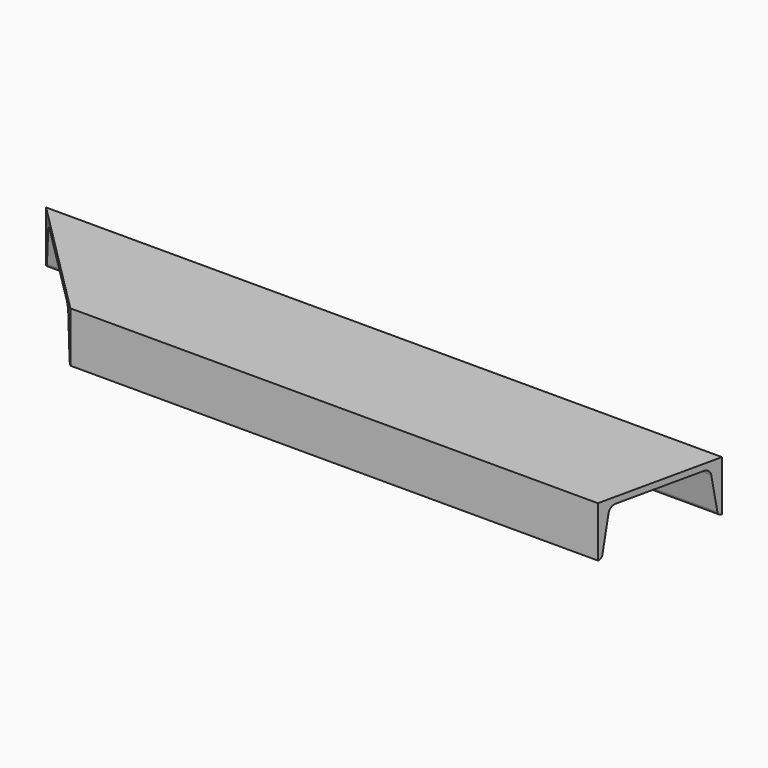
from build123d import *

# Parameters (mm, degrees)
F1_DEPTH = 848.51875
F3_DEPTH = 63.4248


with BuildPart() as f1:
    # F0 (on Right) → F1 (new body)
    with BuildSketch(Plane.YZ):
        with BuildLine():
            Line((76.2, 0), (-76.2, 0))
            Line((-76.2, 0), (-76.2, -63.4238))
            ThreePointArc((-76.2, -63.4238), (-72.574321, -62.102069), (-70.649887, -58.757061))
            Line((-70.649887, -58.757061), (-63.124886, -15.566335))
            ThreePointArc((-63.124886, -15.566335), (-59.952782, -10.052651), (-53.976459, -7.874))
            Line((-53.976459, -7.874), (53.976459, -7.874))
            ThreePointArc((53.976459, -7.874), (59.952782, -10.052651), (63.124886, -15.566335))
            Line((63.124886, -15.566335), (70.649887, -58.757061))
            ThreePointArc((70.649887, -58.757061), (72.574321, -62.102069), (76.2, -63.4238))
            Line((76.2, -63.4238), (76.2, 0))
        make_face()
    extrude(amount=F1_DEPTH)

    # F2 (on face) → F3 (cut, through all)
    with BuildSketch(Plane.XY):
        Polygon((152.4, -76.2), (0, 76.2), (0, -76.2), align=None)
        Polygon((848.51875, -76.2), (848.51875, 76.2), (814.732483, -76.2), align=None)
    extrude(amount=-F3_DEPTH, mode=Mode.SUBTRACT)


solid = f1.part
